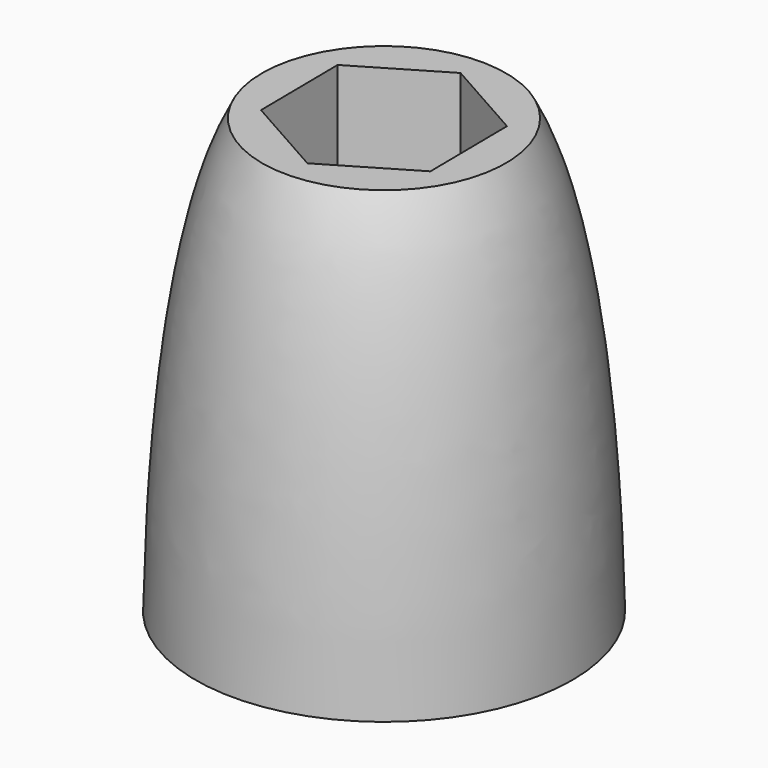
from build123d import *

# Parameters (mm, degrees)
F3_DEPTH = 6
F4_R     = 0.75
F5_DEPTH = 10.691096


with BuildPart() as f1:
    # F0 (on Front) → F1 (revolve)
    with BuildSketch(Plane.XZ):
        with BuildLine():
            Line((0, -0.690096), (0, 0))
            Line((0, 0), (0, 16))
            Line((0, 16), (-4.5, 16))
            add(Edge.make_bspline(
                [(-4.5, 16), (-6.14538, 12.944644), (-6.807135, 6.615023), (-6.95, 0)],
                knots=[0, 0, 0, 0, 16.186491, 16.186491, 16.186491, 16.186491], degree=3))
            Line((-6.95, 0), (-3, 0))
            Line((-3, 0), (-2.014441, -0.690096))
            Line((-2.014441, -0.690096), (0, -0.690096))
        make_face()
    revolve(axis=Axis((0, 0, 8), (0, 0, 1)))

    # F2 (on face) → F3 (cut)
    with BuildSketch(Plane.XY.offset(16)):
        Polygon((-0.037923, 3.579371), (-3.118788, 1.756843), (-3.080864, -1.822528), (0.037923, -3.579371), (3.118788, -1.756843), (3.080864, 1.822528), align=None)
    extrude(amount=-F3_DEPTH, mode=Mode.SUBTRACT)

    # F4 (on face) → F5 (cut, through all)
    with BuildSketch(Plane.XY.offset(10)):
        Circle(F4_R)
    extrude(amount=-F5_DEPTH, mode=Mode.SUBTRACT)


solid = f1.part
